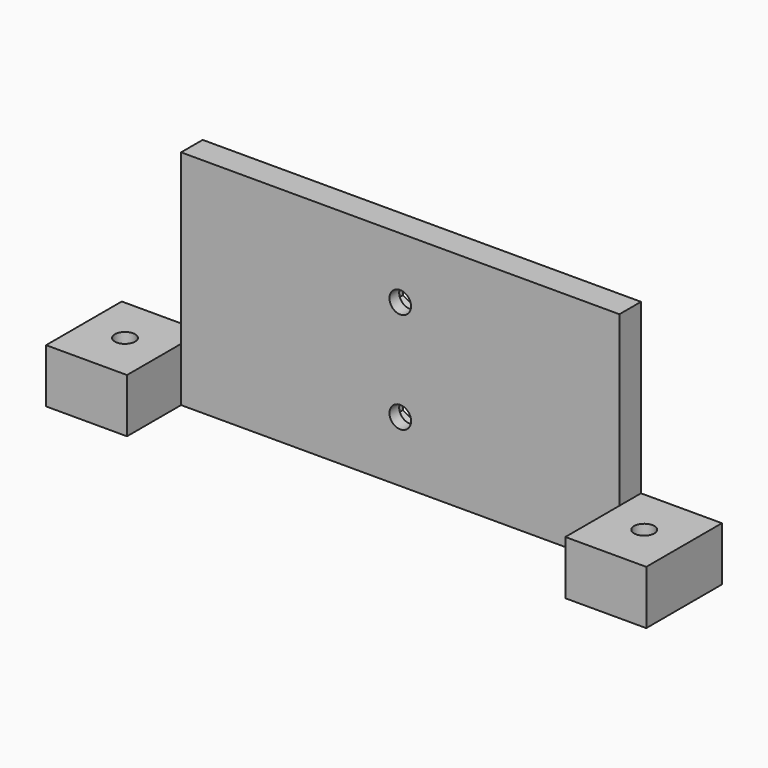
from build123d import *

# Parameters (mm, degrees)
SKETCH001_W     = 89
SKETCH001_H     = 14.025192
PAD_DEPTH       = 8
SKETCH002_R     = 3.7
POCKET_DEPTH    = 6
SKETCH003_R     = 1.5
POCKET001_DEPTH = 8.001
SKETCH004_W     = 65
SKETCH004_H     = 4
PAD001_DEPTH    = 25
SKETCH007_W     = 65
SKETCH007_H     = 10.025192
POCKET004_DEPTH = 8
SKETCH008_R     = 1.6
POCKET005_DEPTH = 4
POCKET006_DEPTH = 2.2


with BuildPart() as part:
    # Sketch001 → Pad (new body)
    with BuildSketch(Plane.XY):
        with Locations((126.600648, 156.296259)):
            Rectangle(SKETCH001_W, SKETCH001_H)
    extrude(amount=PAD_DEPTH)

    # Sketch002 (on Face5 of Pad) → Pocket (cut)
    with BuildSketch(Plane(origin=(0, 0, 0), x_dir=(1, 0, 0), z_dir=(0, 0, -1))):
        with Locations((88.100648, -156.408663)):
            Circle(SKETCH002_R)
        with Locations((165.100648, -156.408663)):
            Circle(SKETCH002_R)
    extrude(amount=-POCKET_DEPTH, mode=Mode.SUBTRACT)

    # Sketch003 (on Face6 of Pad) → Pocket001 (cut, through all)
    with BuildSketch(Plane.XY.offset(8)):
        with Locations((88.100648, 156.408663)):
            Circle(SKETCH003_R)
        with Locations((165.100648, 156.408663)):
            Circle(SKETCH003_R)
    extrude(amount=-POCKET001_DEPTH, mode=Mode.SUBTRACT)

    # Sketch004 (on Face5 of Pocket001) → Pad001 (join)
    with BuildSketch(Plane.XY.offset(8)):
        with Locations((126.600648, 161.308855)):
            Rectangle(SKETCH004_W, SKETCH004_H)
    extrude(amount=PAD001_DEPTH)

    # Sketch007 (on Face5 of Pad001) → Pocket004 (cut)
    with BuildSketch(Plane.XY.offset(8)):
        with Locations((126.600648, 154.296259)):
            Rectangle(SKETCH007_W, SKETCH007_H)
    extrude(amount=-POCKET004_DEPTH, mode=Mode.SUBTRACT)

    # Sketch008 (on Face20 of Pocket004) → Pocket005 (cut)
    with BuildSketch(Plane.XZ.offset(-159.308855)):
        with Locations((126.600648, 9)):
            Circle(SKETCH008_R)
        with Locations((126.600648, 23.99)):
            Circle(SKETCH008_R)
    extrude(amount=-POCKET005_DEPTH, mode=Mode.SUBTRACT)

    # Sketch009 (on Face6 of Pocket005) → Pocket006 (cut)
    with BuildSketch(Plane(origin=(0, 163.308855, 0), x_dir=(-1, 0, 0), z_dir=(0, 1, 0))):
        Polygon((-123.800648, 25.606581), (-126.600648, 27.223162), (-129.400648, 25.606581), (-129.400648, 22.373419), (-126.600648, 20.756838), (-123.800648, 22.373419), align=None)
        Polygon((-123.800648, 10.616581), (-126.600648, 12.233162), (-129.400648, 10.616581), (-129.400648, 7.383419), (-126.600648, 5.766838), (-123.800648, 7.383419), align=None)
    extrude(amount=-POCKET006_DEPTH, mode=Mode.SUBTRACT)


solid = part.part
